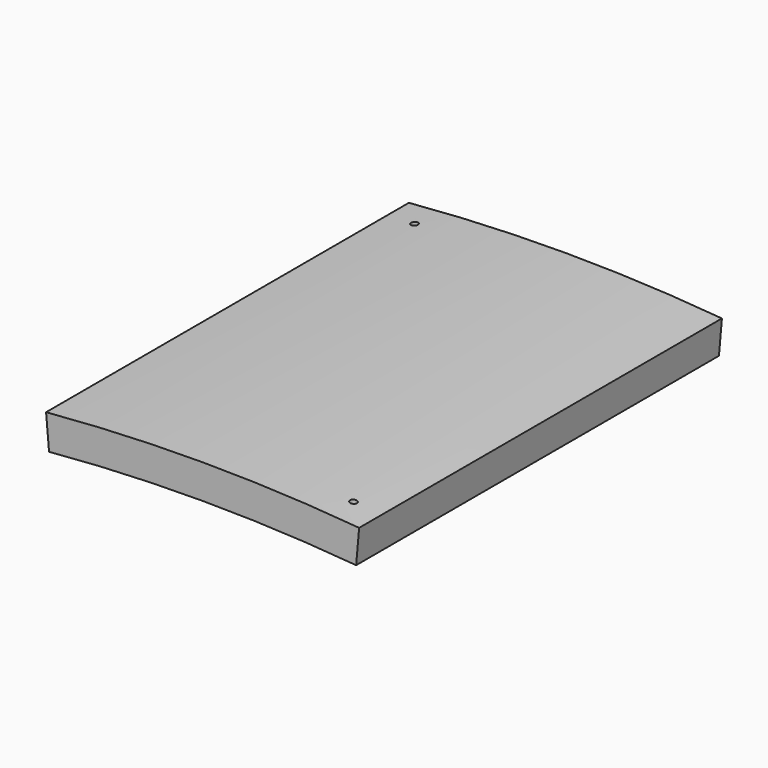
from build123d import *

# Parameters (mm, degrees)
F0_W     = 400
F0_H     = 30
F1_ANGLE = 10
F4_D     = 6
F4_DEPTH = 100


with BuildPart() as f1:
    # F0 (on Right) → F1 (revolve, symmetric)
    with BuildSketch(Plane.YZ) as f1_sk:
        with Locations((0, 1569)):
            Rectangle(F0_W, F0_H)
    revolve(axis=Axis((0, -0.207613, 0), (0, 1, 0)), revolution_arc=F1_ANGLE / 2)
    revolve(f1_sk.sketch, axis=Axis((0, -0.207613, 0), (0, -1, 0)), revolution_arc=F1_ANGLE / 2)

    # F4
    with Locations(Plane.XY.offset(1600)):
        with Locations((-113.054697, 175), (113.054697, -175)):
            Hole(F4_D / 2, depth=F4_DEPTH)


solid = f1.part
